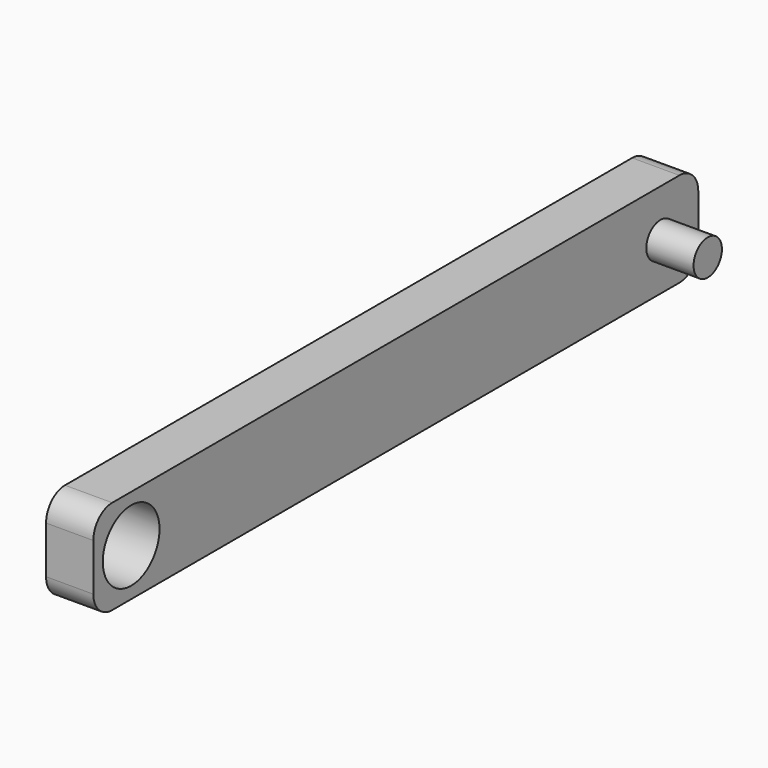
from build123d import *

# Parameters (mm, degrees)
F0_R     = 9.525
F1_DEPTH = 6.35
F2_R     = 4.7625
F3_DEPTH = 12.7


with BuildPart() as f1:
    # F0 (on Right) → F1 (new body, symmetric)
    with BuildSketch(Plane.YZ):
        with BuildLine():
            ThreePointArc((101.6, 6.35), (99.740128, 10.840128), (95.25, 12.7))
            Line((95.25, 12.7), (-95.25, 12.7))
            ThreePointArc((-95.25, 12.7), (-99.740128, 10.840128), (-101.6, 6.35))
            Line((-101.6, 6.35), (-101.6, -6.35))
            ThreePointArc((-101.6, -6.35), (-99.740128, -10.840128), (-95.25, -12.7))
            Line((-95.25, -12.7), (95.25, -12.7))
            ThreePointArc((95.25, -12.7), (99.740128, -10.840128), (101.6, -6.35))
            Line((101.6, -6.35), (101.6, 6.35))
        make_face()
        with Locations((-88.9, 0)):
            Circle(F0_R, mode=Mode.SUBTRACT)
    extrude(amount=F1_DEPTH, both=True)

    # F2 (on face) → F3 (join)
    with BuildSketch(Plane.YZ.offset(6.35)):
        with Locations((88.9, 0)):
            Circle(F2_R)
    extrude(amount=F3_DEPTH)


solid = f1.part
